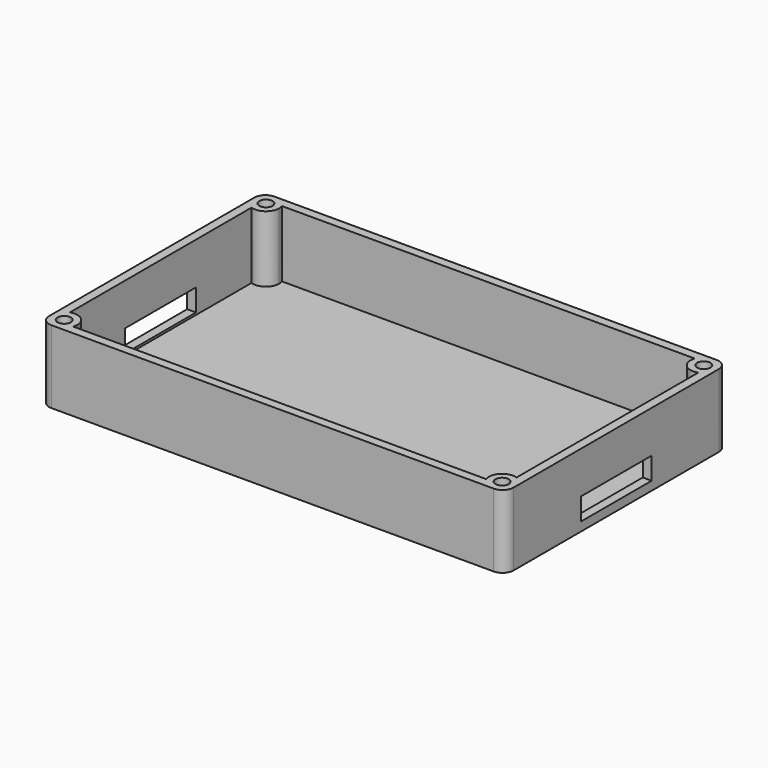
from build123d import *

# Parameters (mm, degrees)
F1_DEPTH = 33
F2_W     = 210
F2_H     = 126
F3_DEPTH = 3
F4_W     = 40
F4_H     = 10
F5_DEPTH = 210.001
F6_R     = 5
F7_R     = 3
F8_DEPTH = 20


with BuildPart() as f1:
    # F0 (on Top) → F1 (new body)
    with BuildSketch(Plane.XY):
        with BuildLine():
            Line((105, 57), (105, 63))
            Line((105, 63), (99, 63))
            ThreePointArc((99, 63), (103.2426406871, 61.2426406871), (105, 57))
        make_face()
        with BuildLine():
            ThreePointArc((-105, 57), (-103.2426406871, 61.2426406871), (-99, 63))
            Line((-99, 63), (-105, 63))
            Line((-105, 63), (-105, 57))
        make_face()
        with BuildLine():
            Line((105, -63), (105, -57))
            ThreePointArc((105, -57), (103.2426406871, -61.2426406871), (99, -63))
            Line((99, -63), (105, -63))
        make_face()
        with BuildLine():
            ThreePointArc((-99, -63), (-103.242640668, -61.2426407063), (-105, -57.0000000541))
            Line((-105, -57.0000000541), (-105, -63))
            Line((-105, -63), (-99, -63))
        make_face()
        with BuildLine():
            Line((-99, -63), (99, -63))
            ThreePointArc((99, -63), (95.5358983849, -61.8989794856), (93.3431457505, -59))
            Line((93.3431457505, -59), (-93.3431457505, -59))
            ThreePointArc((-93.3431457505, -59), (-95.5358983849, -61.8989794856), (-99, -63))
        make_face()
        with BuildLine():
            Line((105, -57), (105, 57))
            ThreePointArc((105, 57), (103.8989794856, 53.5358983849), (101, 51.3431457505))
            Line((101, 51.3431457505), (101, -51.3431457505))
            ThreePointArc((101, -51.3431457505), (103.8989794856, -53.5358983849), (105, -57))
        make_face()
        with BuildLine():
            ThreePointArc((-101, 51.3431457505), (-103.8989794856, 53.5358983849), (-105, 57))
            Line((-105, 57), (-105, -57.0000000541))
            ThreePointArc((-105, -57.0000000541), (-103.8989795012, -53.535898407), (-101, -51.3431457505))
            Line((-101, -51.3431457505), (-101, 51.3431457505))
        make_face()
        with BuildLine():
            ThreePointArc((-93.3431457505, 59), (-95.5358983849, 61.8989794856), (-99, 63))
            ThreePointArc((-99, 63), (-103.2426406871, 61.2426406871), (-105, 57))
            ThreePointArc((-105, 57), (-103.8989794856, 53.5358983849), (-101, 51.3431457505))
            Line((-101, 51.3431457505), (-101, 59))
            Line((-101, 59), (-93.3431457505, 59))
        make_face()
        with BuildLine():
            ThreePointArc((-101, -51.3431457505), (-103.8989795012, -53.535898407), (-105, -57.0000000541))
            ThreePointArc((-105, -57.0000000541), (-103.242640668, -61.2426407063), (-99, -63))
            ThreePointArc((-99, -63), (-95.5358983849, -61.8989794856), (-93.3431457505, -59))
            Line((-93.3431457505, -59), (-101, -59))
            Line((-101, -59), (-101, -51.3431457505))
        make_face()
        with BuildLine():
            ThreePointArc((105, 57), (103.2426406871, 61.2426406871), (99, 63))
            ThreePointArc((99, 63), (95.5358983849, 61.8989794856), (93.3431457505, 59))
            Line((93.3431457505, 59), (101, 59))
            Line((101, 59), (101, 51.3431457505))
            ThreePointArc((101, 51.3431457505), (103.8989794856, 53.5358983849), (105, 57))
        make_face()
        with BuildLine():
            ThreePointArc((99, -63), (103.2426406871, -61.2426406871), (105, -57))
            ThreePointArc((105, -57), (103.8989794856, -53.5358983849), (101, -51.3431457505))
            Line((101, -51.3431457505), (101, -59))
            Line((101, -59), (93.3431457505, -59))
            ThreePointArc((93.3431457505, -59), (95.5358983849, -61.8989794856), (99, -63))
        make_face()
        with BuildLine():
            Line((101, 59), (93.3431457505, 59))
            ThreePointArc((93.3431457505, 59), (94.7573593129, 52.7573593129), (101, 51.3431457505))
            Line((101, 51.3431457505), (101, 59))
        make_face()
        with BuildLine():
            ThreePointArc((-93, 57), (-93.0864086421, 58.0146118724), (-93.3431457505, 59))
            Line((-93.3431457505, 59), (-101, 59))
            Line((-101, 59), (-101, 51.3431457505))
            ThreePointArc((-101, 51.3431457505), (-95.5358983849, 52.1010205144), (-93, 57))
        make_face()
        with BuildLine():
            ThreePointArc((-93, -57), (-95.5358983849, -52.1010205144), (-101, -51.3431457505))
            Line((-101, -51.3431457505), (-101, -59))
            Line((-101, -59), (-93.3431457505, -59))
            ThreePointArc((-93.3431457505, -59), (-93.0864086421, -58.0146118724), (-93, -57))
        make_face()
        with BuildLine():
            Line((101, -59), (101, -51.3431457505))
            ThreePointArc((101, -51.3431457505), (94.7573593129, -52.7573593129), (93.3431457505, -59))
            Line((93.3431457505, -59), (101, -59))
        make_face()
        with BuildLine():
            ThreePointArc((93.3431457505, 59), (95.5358983849, 61.8989794856), (99, 63))
            Line((99, 63), (-99, 63))
            ThreePointArc((-99, 63), (-95.5358983849, 61.8989794856), (-93.3431457505, 59))
            Line((-93.3431457505, 59), (93.3431457505, 59))
        make_face()
    extrude(amount=F1_DEPTH)

    # F2 (on Top) → F3 (join)
    with BuildSketch(Plane.XY):
        Rectangle(F2_W, F2_H)
    extrude(amount=F3_DEPTH)

    # F4 (on face) → F5 (cut, through all)
    with BuildSketch(Plane.YZ.offset(105)):
        with Locations((0, 9)):
            Rectangle(F4_W, F4_H)
    extrude(amount=-F5_DEPTH, mode=Mode.SUBTRACT)

    # F6
    f6_edges = [f1.edges().sort_by_distance(p)[0] for p in [
        (-105, 63, 16.5),
        (105, 63, 16.5),
        (105, -63, 16.5),
        (-105, -63, 16.5),
    ]]
    fillet(f6_edges, radius=F6_R)

    # F7 (on face) → F8 (cut)
    with BuildSketch(Plane.XY.offset(33)):
        with Locations((-99, 57)):
            Circle(F7_R)
        with Locations((99, 57)):
            Circle(F7_R)
        with Locations((99, -57)):
            Circle(F7_R)
        with Locations((-99, -57)):
            Circle(F7_R)
    extrude(amount=-F8_DEPTH, mode=Mode.SUBTRACT)


solid = f1.part
